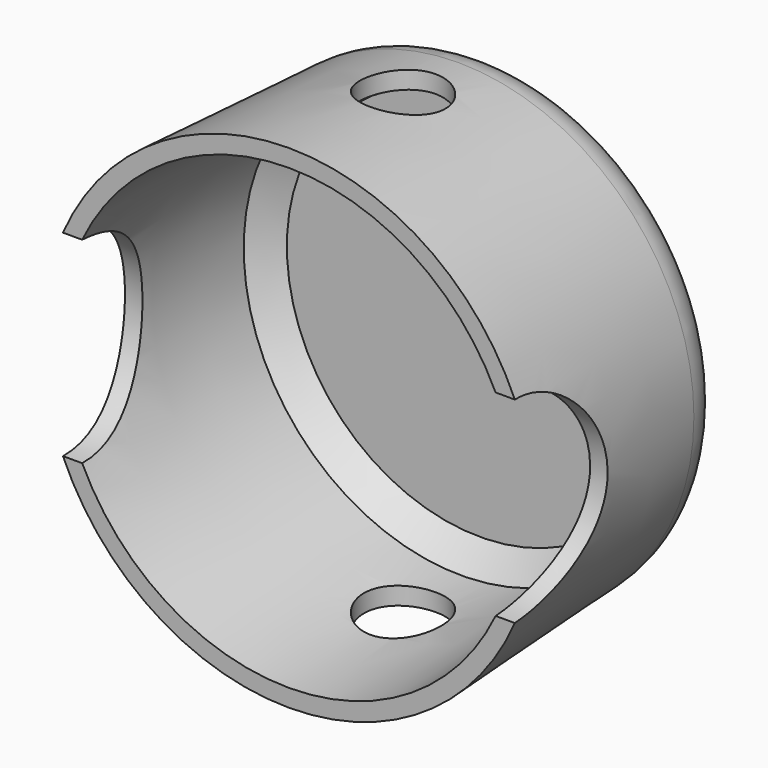
from build123d import *

# Parameters (mm, degrees)
F0_R          = 50.8
F1_DEPTH      = 55.88
F1_TAPER      = -3
F2_T          = -3.81
F4_R          = 21.44690309
F5_DEPTH      = 58.166
F5_DEPTH_BACK = 65.786
F6_R          = 10.16
F7_SIZE       = 5.08
F9_R          = 8.89
F10_DEPTH     = 133.858


with BuildPart() as f1:
    # F0 (on Front) → F1 (new body)
    with BuildSketch(Plane.XZ):
        Circle(F0_R)
    extrude(amount=F1_DEPTH, taper=F1_TAPER)

    # F2
    f2_openings = [f1.faces().sort_by_distance(p)[0] for p in [
        (0, -55.88, 0),
    ]]
    offset(amount=F2_T, openings=f2_openings, kind=Kind.INTERSECTION)

    # F4 (on Right) → F5 (cut, two sides)
    with BuildSketch(Plane.YZ) as f5_sk:
        with Locations((-56.2342293561, 0)):
            Circle(F4_R)
    extrude(amount=-F5_DEPTH, mode=Mode.SUBTRACT)
    extrude(f5_sk.sketch, amount=F5_DEPTH_BACK, mode=Mode.SUBTRACT)

    # F6
    f6_edges = [f1.edges().sort_by_distance(p)[0] for p in [
        (-50.8, 0, 0),
    ]]
    fillet(f6_edges, radius=F6_R)

    # F7
    f7_edges = [f1.edges().sort_by_distance(p)[0] for p in [
        (-47.184445, -3.81, 0),
    ]]
    chamfer(f7_edges, length=F7_SIZE)

    # F9 (on offset) → F10 (cut)
    with BuildSketch(Plane.XY.offset(-64.008)):
        with Locations((0, -24.771042074)):
            Circle(F9_R)
    extrude(amount=F10_DEPTH, mode=Mode.SUBTRACT)


solid = f1.part
